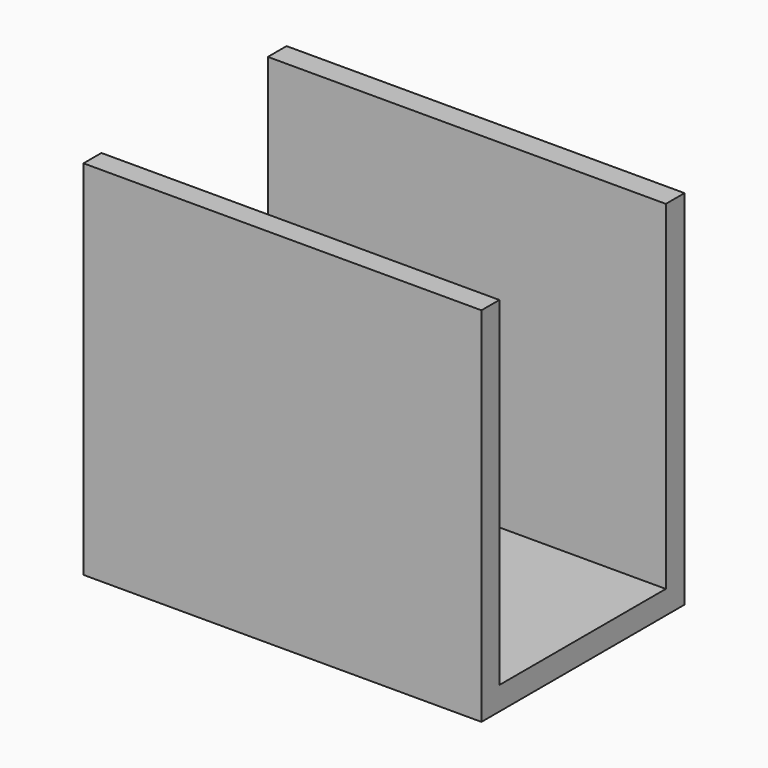
from build123d import *

# Parameters (mm, degrees)
F0_W     = 29.819679
F0_H     = 19.020783
F1_DEPTH = 1.7526
F2_W     = 29.819679
F2_H     = 1.678319
F2_H_2   = 1.749592
F3_DEPTH = 25.4
F5_DEPTH = 1.27


with BuildPart() as f1:
    # F0 (on Top) → F1 (new body)
    with BuildSketch(Plane.XY):
        with Locations((-14.909839, 9.510391)):
            Rectangle(F0_W, F0_H)
    extrude(amount=F1_DEPTH)

    # F2 (on face) → F3 (join)
    with BuildSketch(Plane.XY.offset(1.7526)):
        with Locations((-14.909839, 0.839159)):
            Rectangle(F2_W, F2_H)
        with Locations((-14.909839, 18.145987)):
            Rectangle(F2_W, F2_H_2)
    extrude(amount=F3_DEPTH)

    # F4 (on face) → F5 (cut)
    with BuildSketch(Plane.XY.offset(1.7526)):
        Polygon((-28.893916, 1.678319), (-28.706811, 1.678319), (-28.706811, 2.798873), (-28.891727, 2.798873), (-28.891727, 2.33306), (-29.167514, 2.798873), (-29.411837, 2.798873), (-29.411837, 2.33306), (-29.208586, 2.33306), (-29.208586, 2.418116), (-29.295232, 2.418116), (-29.295232, 2.668939), (-28.99156, 2.209891), (-29.301949, 1.678319), (-29.110944, 1.678319), (-28.861644, 2.19865), align=None)
    extrude(amount=-F5_DEPTH, mode=Mode.SUBTRACT)


solid = f1.part
